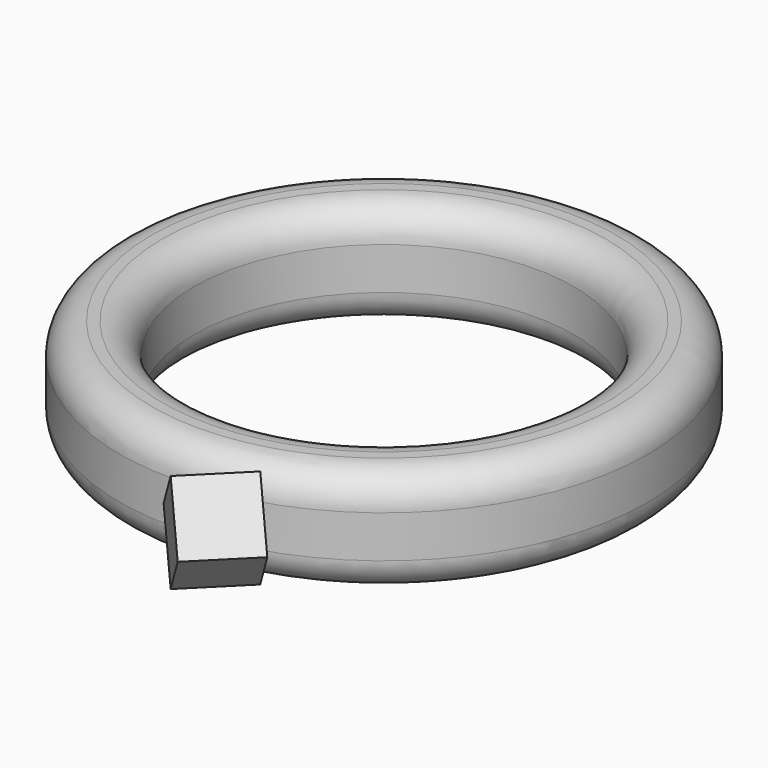
from build123d import *

# Parameters (mm, degrees)
SKETCH_W            = 3.5
SKETCH_H            = 5
BOX_W               = 3.333333
BOX_H               = 3.333333
BOX_DEPTH           = 3.333333
BOX_ROLL_ANGLE      = -45
BOX_PLACEMENT_ANGLE = -135


with BuildPart() as body:
    # Sketch → Revolution (revolve)
    with BuildSketch(Plane.XZ):
        with Locations((-10.75, 0)):
            Rectangle(SKETCH_W, SKETCH_H)
    revolve(axis=Axis((0, 0, 0), (0, 0, 1)))

    # Sketch001 → Groove (revolve, cut)
    with BuildSketch(Plane.XZ):
        with BuildLine():
            Line((-9, 1), (-9, 2.5))
            Line((-9, 2.5), (-10.5, 2.5))
            ThreePointArc((-9, 1), (-9.43934, 2.06066), (-10.5, 2.5))
        make_face()
        with BuildLine():
            Line((-11, 2.5), (-12.5, 2.5))
            Line((-12.5, 2.5), (-12.5, 1))
            ThreePointArc((-11, 2.5), (-12.06066, 2.06066), (-12.5, 1))
        make_face()
        with BuildLine():
            Line((-12.5, -1), (-12.5, -2.5))
            Line((-12.5, -2.5), (-11, -2.5))
            ThreePointArc((-12.5, -1), (-12.06066, -2.06066), (-11, -2.5))
        make_face()
        with BuildLine():
            Line((-10.5, -2.5), (-9, -2.5))
            Line((-9, -2.5), (-9, -1))
            ThreePointArc((-10.5, -2.5), (-9.43934, -2.06066), (-9, -1))
        make_face()
    revolve(axis=Axis((0, 0, 0), (0, 0, 1)), mode=Mode.SUBTRACT)


with BuildPart() as gem:
    # Box → Box (new body)
    with BuildSketch(Plane.XY):
        with Locations((1.666666, 1.666666)):
            Rectangle(BOX_W, BOX_H)
    extrude(amount=BOX_DEPTH)


with BuildPart() as gem_1:
    # Box roll: moved
    add(gem.part.rotate(Axis((0, 0, 0), (1, 0, 0)), BOX_ROLL_ANGLE))


with BuildPart() as gem_2:
    # Box placement: moved
    add(gem_1.part.moved(Location((2.12132, -10.393398, 0))).rotate(Axis((2.12132, -10.393398, 0), (0, 0, 1)), BOX_PLACEMENT_ANGLE))


solid = Compound([body.part, gem_2.part])
